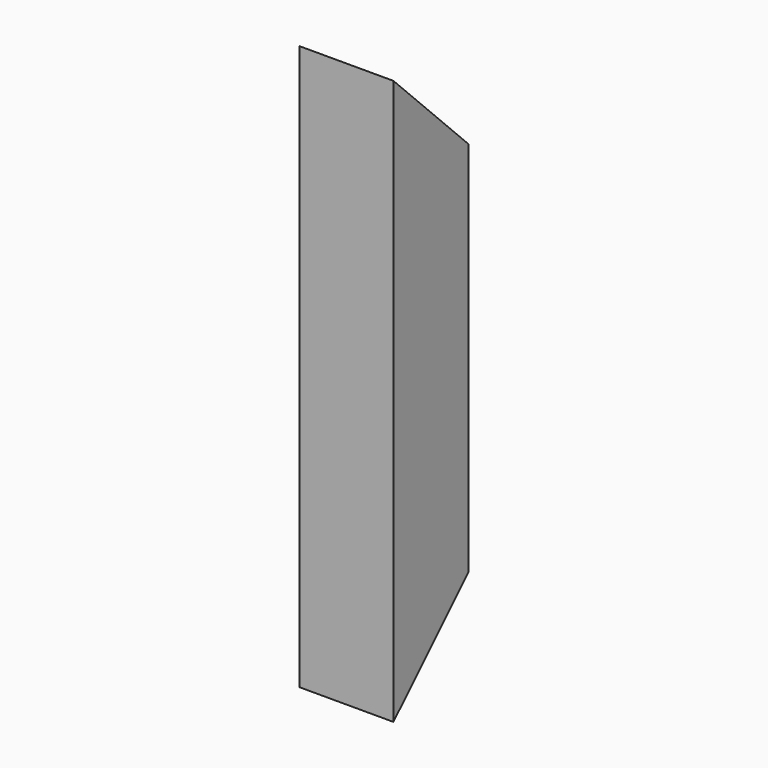
from build123d import *

# Parameters (mm, degrees)
F0_W     = 25.4
F0_H     = 25.4
F0_W_2   = 22.225
F0_H_2   = 22.225
F1_DEPTH = 152.4
F3_DEPTH = 25.4


with BuildPart() as f1:
    # F0 (on Top) → F1 (new body)
    with BuildSketch(Plane.XY):
        Rectangle(F0_W, F0_H)
        Rectangle(F0_W_2, F0_H_2, mode=Mode.SUBTRACT)
    extrude(amount=F1_DEPTH)

    # F2 (on face) → F3 (cut, through all)
    with BuildSketch(Plane.YZ.offset(12.7)):
        Polygon((12.7, 152.4), (-12.7, 152.4), (12.7, 127), align=None)
        Polygon((12.7, 25.4), (-12.7, 0), (12.7, 0), align=None)
    extrude(amount=-F3_DEPTH, mode=Mode.SUBTRACT)


solid = f1.part
